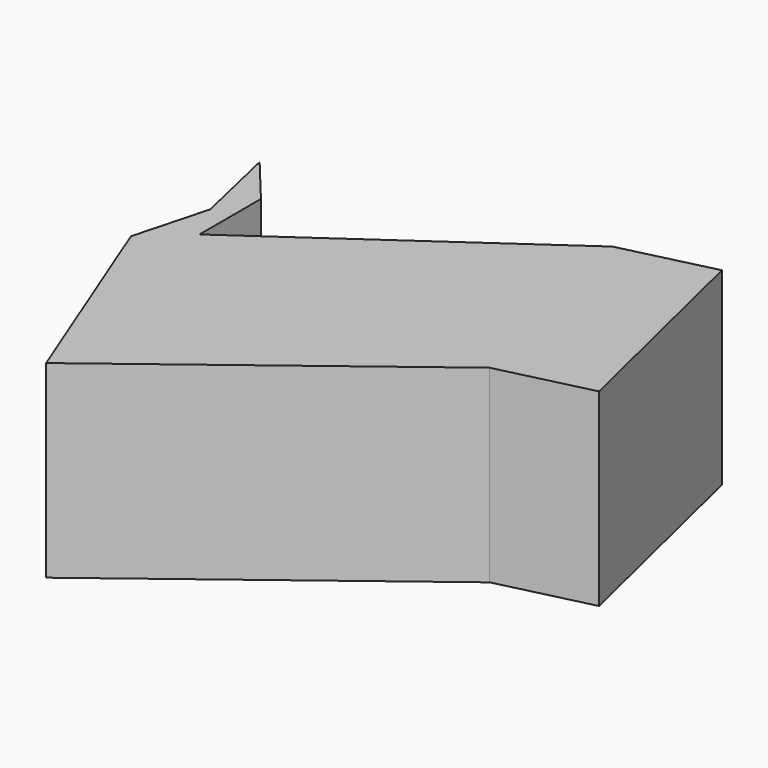
from build123d import *

# Parameters (mm, degrees)
F1_DEPTH = 25.4
F2_DEPTH = 25.4
F3_DEPTH = 25.4


with BuildPart() as f1:
    # F0 (on Top) → F1 (new body)
    with BuildSketch(Plane.XY):
        Polygon((5.3568482399, 62.3435284942), (0, 42.381696403), (22.1037119627, -13.7682110071), (96.1266011, 42.7341908216), (81.8468928337, 101.8667668104), (10.7136964798, 52.0066134632), (10.7136964798, 72.6804435253), (0, 85.6353342533), align=None)
    extrude(amount=F1_DEPTH)

    # F2 (add): a face of the model
    f2_faces = [f1.faces().sort_by_distance(p)[0] for p in [
        (47.6996824871, 44.5902490016, 25.4),
    ]]
    extrude(f2_faces, amount=F2_DEPTH)

    # F3 (add): a face of the model
    f3_faces = [f1.faces().sort_by_distance(p)[0] for p in [
        (88.9867469668, 72.300478816, 25.4),
    ]]
    extrude(f3_faces, amount=F3_DEPTH)


solid = f1.part
